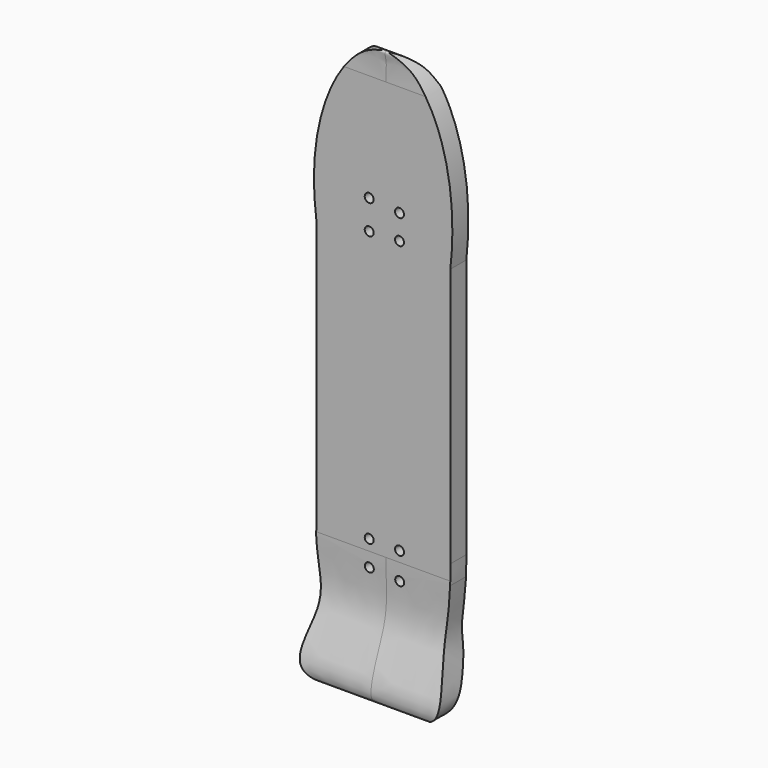
from build123d import *

# Parameters (mm, degrees)
F1_DEPTH = 11.176
F3_DEPTH = 16.002
F4_D     = 1.27
F4_DEPTH = 12.7
F4_TIP   = 0.3815464931


with BuildPart() as f1:
    # F0 (on Front) → F1 (new body)
    with BuildSketch(Plane.XZ):
        with BuildLine():
            Line((9.1406542316, -36.8676199526), (9.1406542316, 0))
            add(Edge.make_bspline(
                [(9.1406542316, 0), (10.7061503857, 13.7109258003), (0.4740364967, 34.8192397536), (-11.7750333481, 13.837121543), (-9.9093457684, 0)],
                knots=[0, 0, 0, 0, 0.4986563815, 1, 1, 1, 1], degree=3))
            Line((-9.9093457684, 0), (-9.9093457684, -38.1))
            add(Edge.make_bspline(
                [(-9.9093457684, -38.1), (-9.9244337043, -38.6401578808), (-9.9230909557, -39.1481164054), (-9.9093457684, -39.6284098864)],
                knots=[0, 0, 0, 0, 0.0197742536, 0.0197742536, 0.0197742536, 0.0197742536], degree=3))
            Line((-9.9093457684, -39.6284098864), (9.1058240456, -39.6284098864))
            add(Edge.make_bspline(
                [(9.1058240456, -39.6284098864), (9.1472999044, -38.8054687269), (9.1645980044, -37.8942316995), (9.1406542316, -36.8676199526)],
                knots=[0.9660945817, 0.9660945817, 0.9660945817, 0.9660945817, 1, 1, 1, 1], degree=3))
        make_face()
        with BuildLine():
            add(Edge.make_bspline(
                [(-9.9093457684, -39.6284098864), (-9.801757521, -43.3878300174), (-8.1201372691, -47.3899401474), (-12.4463180846, -56.6128599936), (0.0155730633, -57.3444708903), (11.7192256504, -56.7649470761), (7.6318759272, -47.0732667431), (8.9250634606, -43.2149619082), (9.1058240456, -39.6284098864)],
                knots=[0.0197742536, 0.0197742536, 0.0197742536, 0.0197742536, 0.1745540501, 0.3198265861, 0.4965637525, 0.6675126017, 0.8183275813, 0.9660945817, 0.9660945817, 0.9660945817, 0.9660945817], degree=3))
            Line((9.1058240456, -39.6284098864), (-9.9093457684, -39.6284098864))
        make_face()
    extrude(amount=F1_DEPTH)

    # F2 (on Right) → F3 (intersect, symmetric)
    with BuildSketch(Plane.YZ):
        with BuildLine():
            add(Edge.make_bspline(
                [(-2.8447918594, 20.4433072358), (-2.8328990929, 21.2995789438), (-2.6454543841, 22.8066908766), (-3.3999612126, 24.9246562509), (-0.5365093981, 23.0015752079), (-0.2062791723, 20.9125956605), (0, 20.6921529025), (0, 20.3201249242)],
                knots=[0, 0, 0, 0, 0.2461369496, 0.4162845101, 0.6535181145, 0.8730819735, 1, 1, 1, 1], degree=3))
            Line((-2.8447918594, 20.4433072358), (-2.8447918594, -39.0389757231))
            add(Edge.make_bspline(
                [(-2.8447918594, -39.0389757231), (-2.9196527824, -40.602035367), (-2.3357748375, -45.8547594334), (-4.3058990242, -50.1594899849), (-5.89145866, -54.8466779957), (-5.056552071, -56.3980745137), (-2.9374128924, -56.6570889747), (-0.3375685621, -49.6222863503), (-0.1297811349, -49.043065047), (0, -47.8546246886)],
                knots=[0, 0, 0, 0, 0.189014152, 0.358671528, 0.5186325325, 0.6060272096, 0.6945760484, 0.8856295155, 1, 1, 1, 1], degree=3))
            Line((0, -47.8546246886), (0, 20.3201249242))
        make_face()
    extrude(amount=F3_DEPTH, both=True, mode=Mode.INTERSECT)

    # F4
    with Locations(Plane(origin=(0, 0, 0), x_dir=(1, 0, 0), z_dir=(0, 1, 0))):
        with Locations((1.9129435532, 41.3977466524), (-2.3932741024, 41.0778298974), (-2.3932741024, 37.4904721975), (1.9129435532, 37.5712364912), (1.9129435532, -1.1761081405), (-2.3932741024, -0.9874911048), (-2.3932741024, -5.1589123905), (1.9129435532, -4.6838666312)):
            Hole(F4_D / 2, depth=F4_DEPTH)
            with Locations((0, 0, -(F4_DEPTH + F4_TIP / 2))):  # 118° drill point
                Cone(0, F4_D / 2, F4_TIP, mode=Mode.SUBTRACT)


solid = f1.part
